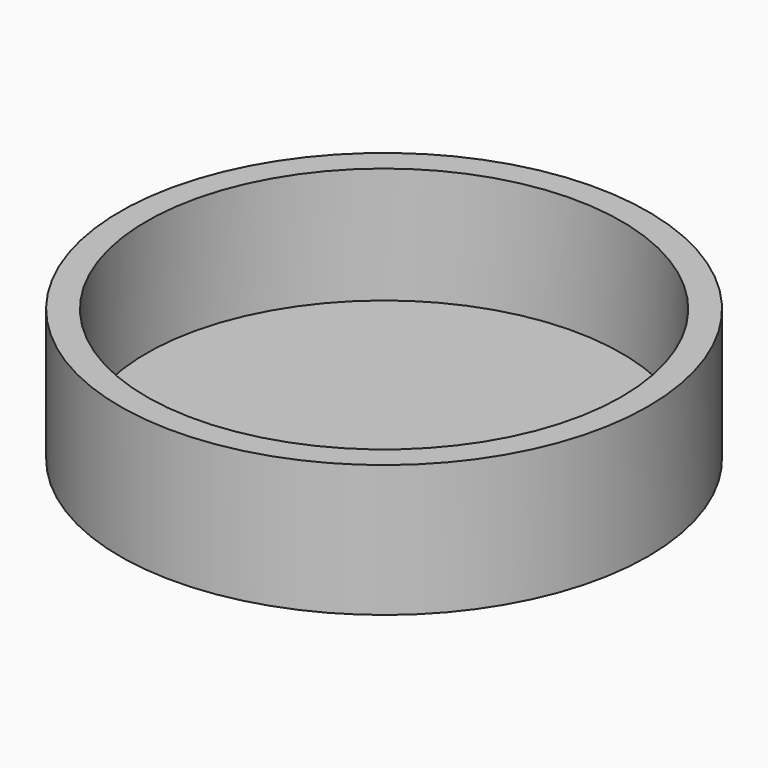
from build123d import *

# Parameters (mm, degrees)
F0_R     = 50
F0_R_2   = 45
F1_DEPTH = 25
F2_R     = 45.964929
F3_DEPTH = 3


with BuildPart() as f1:
    # F0 (on Top) → F1 (new body)
    with BuildSketch(Plane.XY):
        Circle(F0_R)
        Circle(F0_R_2, mode=Mode.SUBTRACT)
        Circle(F0_R)
        Circle(F0_R_2, mode=Mode.SUBTRACT)
    extrude(amount=F1_DEPTH)

    # F2 (on Top) → F3 (join)
    with BuildSketch(Plane.XY):
        Circle(F2_R)
    extrude(amount=F3_DEPTH)


solid = f1.part
